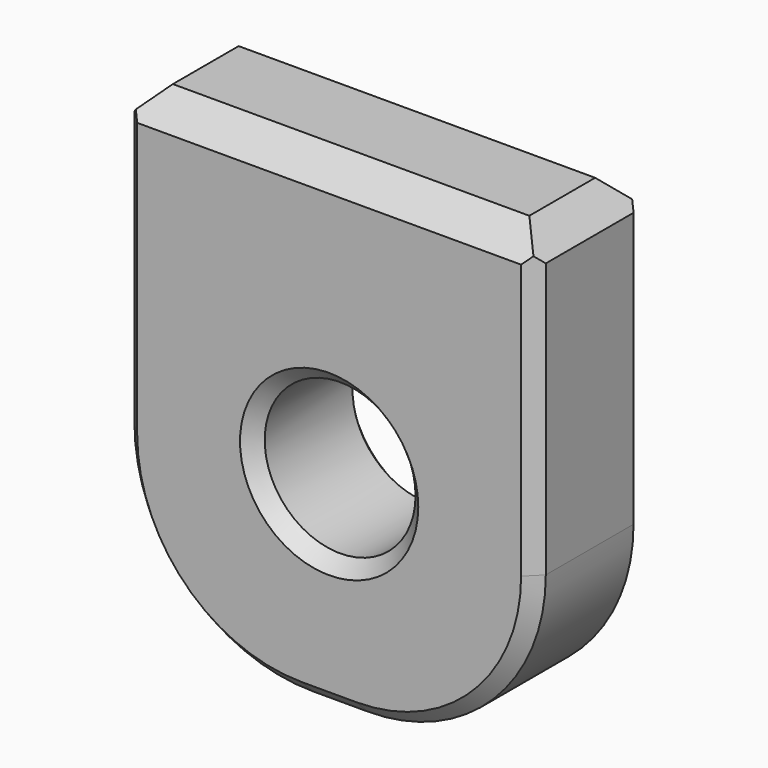
from build123d import *

# Parameters (mm, degrees)
F0_W     = 30
F0_H     = 35
F0_R     = 5.5
F1_DEPTH = 10
F2_R     = 13
F3_SIZE  = 2
F4_SIZE  = 1
F5_SIZE  = 1


with BuildPart() as f1:
    # F0 (on Front) → F1 (new body)
    with BuildSketch(Plane.XZ):
        Rectangle(F0_W, F0_H)
        with Locations((0, -2.5)):
            Circle(F0_R, mode=Mode.SUBTRACT)
        Rectangle(F0_W, F0_H)
        with Locations((0, -2.5)):
            Circle(F0_R, mode=Mode.SUBTRACT)
    extrude(amount=F1_DEPTH)

    # F2
    f2_edges = [f1.edges().sort_by_distance(p)[0] for p in [
        (15, -5, -17.5),
        (-15, -5, -17.5),
    ]]
    fillet(f2_edges, radius=F2_R)

    # F3
    f3_edges = [f1.edges().sort_by_distance(p)[0] for p in [
        (15, -5, 17.5),
        (-15, -5, 17.5),
        (0, 0, 17.5),
        (0, -10, 17.5),
    ]]
    chamfer(f3_edges, length=F3_SIZE)

    # F4
    f4_edges = [f1.edges().sort_by_distance(p)[0] for p in [
        (-15, -10, 5.5),
        (-15, 0, 5.5),
    ]]
    chamfer(f4_edges, length=F4_SIZE)

    # F5
    f5_edges = [f1.edges().sort_by_distance(p)[0] for p in [
        (5.5, -5, -2.5),
        (-5.5, 0, -2.5),
        (-5.5, -10, -2.5),
    ]]
    chamfer(f5_edges, length=F5_SIZE)


solid = f1.part
